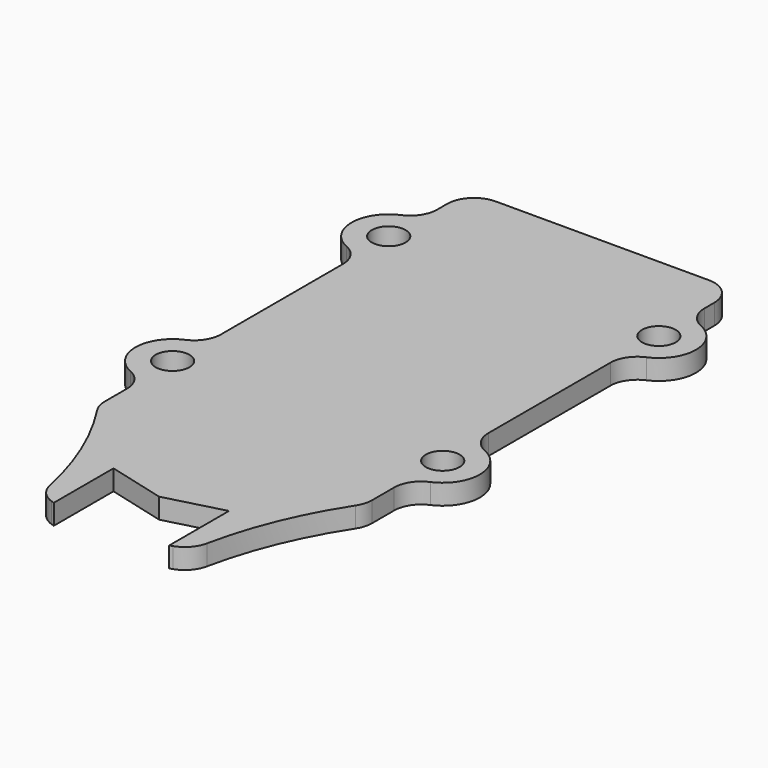
from build123d import *

# Parameters (mm, degrees)
F0_R     = 1.25
F1_DEPTH = 1.5


with BuildPart() as f1:
    # F0 (on Top) → F1 (new body)
    with BuildSketch(Plane.XY):
        with BuildLine():
            ThreePointArc((4.480992, -4.334403), (5.347309, -3.767241), (5.813893, -2.842862))
            ThreePointArc((5.813893, -2.842862), (7.266561, 1.872736), (9.568275, 6.237278))
            ThreePointArc((9.568275, 6.237278), (9.810652, 6.760373), (9.893746, 7.330874))
            Line((9.893746, 7.330874), (9.893746, 9.389568))
            ThreePointArc((9.893746, 9.389568), (10.221213, 10.486214), (11.096379, 11.223745))
            ThreePointArc((11.096379, 11.223745), (12.75, 13.745738), (11.096379, 16.267732))
            ThreePointArc((11.096379, 16.267732), (10.221213, 17.005263), (9.893746, 18.101909))
            Line((9.893746, 18.101909), (9.893746, 29.389567))
            ThreePointArc((9.893746, 29.389567), (10.221213, 30.486214), (11.096379, 31.223745))
            ThreePointArc((11.096379, 31.223745), (12.75, 33.745738), (11.096379, 36.267732))
            ThreePointArc((11.096379, 36.267732), (10.221213, 37.005263), (9.893746, 38.10191))
            Line((9.893746, 38.10191), (9.893746, 39.017056))
            ThreePointArc((9.893746, 39.017056), (9.307959, 40.431269), (7.893746, 41.017056))
            Line((7.893746, 41.017056), (-7.893746, 41.017056))
            ThreePointArc((-7.893746, 41.017056), (-9.307959, 40.431269), (-9.893746, 39.017056))
            Line((-9.893746, 39.017056), (-9.893746, 38.10191))
            ThreePointArc((-9.893746, 38.10191), (-10.221213, 37.005263), (-11.096379, 36.267732))
            ThreePointArc((-11.096379, 36.267732), (-12.75, 33.745738), (-11.096379, 31.223745))
            ThreePointArc((-11.096379, 31.223745), (-10.221213, 30.486214), (-9.893746, 29.389567))
            Line((-9.893746, 29.389567), (-9.893746, 18.101909))
            ThreePointArc((-9.893746, 18.101909), (-10.221213, 17.005263), (-11.096379, 16.267732))
            ThreePointArc((-11.096379, 16.267732), (-12.75, 13.745738), (-11.096379, 11.223745))
            ThreePointArc((-11.096379, 11.223745), (-10.221213, 10.486214), (-9.893746, 9.389568))
            Line((-9.893746, 9.389568), (-9.893746, 7.330874))
            ThreePointArc((-9.893746, 7.330874), (-9.810652, 6.760373), (-9.568275, 6.237278))
            ThreePointArc((-9.568275, 6.237278), (-7.266561, 1.872736), (-5.813893, -2.842862))
            ThreePointArc((-5.813893, -2.842862), (-5.347309, -3.767241), (-4.480992, -4.334403))
            Line((-4.480992, -4.334403), (-4.272997, -4.402826))
            Line((-4.272997, -4.402826), (-4.272997, 1.124135))
            Line((-4.272997, 1.124135), (0, 0))
            Line((0, 0), (4.272997, 1.124135))
            Line((4.272997, 1.124135), (4.272997, -4.402826))
            Line((4.272997, -4.402826), (4.480992, -4.334403))
        make_face()
        with Locations((-10, 13.745738)):
            Circle(F0_R, mode=Mode.SUBTRACT)
        with Locations((10, 13.745738)):
            Circle(F0_R, mode=Mode.SUBTRACT)
        with Locations((-10, 33.745738)):
            Circle(F0_R, mode=Mode.SUBTRACT)
        with Locations((10, 33.745738)):
            Circle(F0_R, mode=Mode.SUBTRACT)
    extrude(amount=F1_DEPTH)


solid = f1.part
